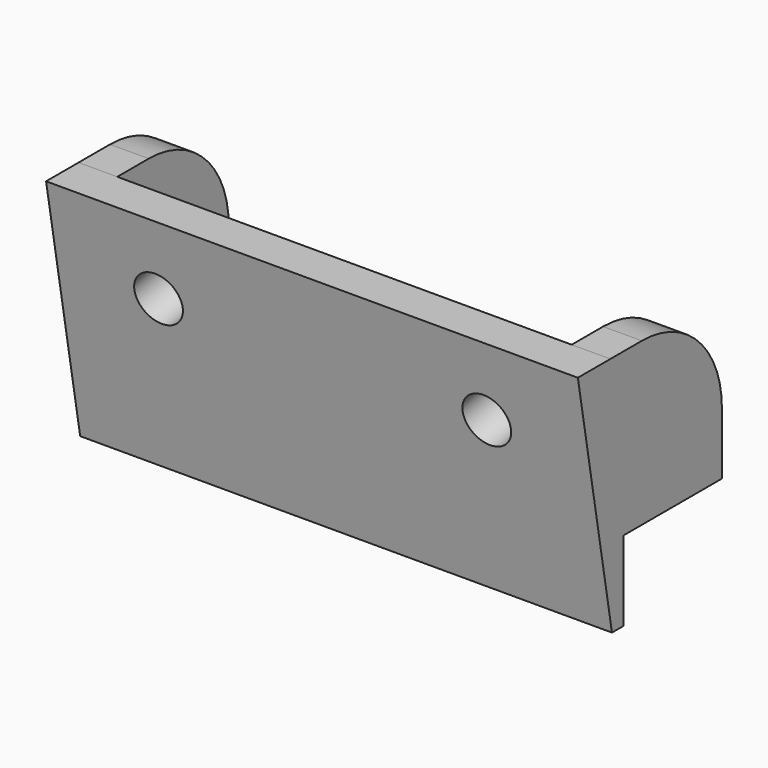
from build123d import *

# Parameters (mm, degrees)
PAD004_DEPTH    = 55
SKETCH007_R     = 2.6
POCKET_DEPTH    = 10
SKETCH005_R     = 2.5
POCKET002_DEPTH = 5
SKETCH008_R     = 4.4
POCKET003_DEPTH = 5
PAD005_DEPTH    = 4
PAD006_DEPTH    = 4
POCKET005_DEPTH = 12.7


with BuildPart() as part:
    # Sketch004 → Pad004 (new body)
    with BuildSketch(Plane.YZ):
        Polygon((-1.516354, -5.192676), (-5.924528, 19.807324), (-1.724528, 19.807324), (0.357421, 8), (12.7, 8), (12.7, 0), (0, 0), (0, -5.192676), align=None)
    extrude(amount=PAD004_DEPTH)

    # Sketch007 → Pocket (cut)
    with BuildSketch(Plane.XY):
        with Locations((20.25, 6.35)):
            Circle(SKETCH007_R)
        with Locations((34.75, 6.35)):
            Circle(SKETCH007_R)
    extrude(amount=POCKET_DEPTH, mode=Mode.SUBTRACT)

    # Sketch005 → Pocket002 (cut)
    with BuildSketch(Plane(origin=(0, 2, 0), x_dir=(-1, 0, 0), z_dir=(0, 0.984808, 0.173648))):
        with Locations((-44.475514, 12.925289)):
            Circle(SKETCH005_R)
        with Locations((-10.524486, 12.925289)):
            Circle(SKETCH005_R)
    extrude(amount=-POCKET002_DEPTH, mode=Mode.SUBTRACT)

    # Sketch008 → Pocket003 (cut)
    with BuildSketch(Plane.XY.offset(4)):
        with Locations((20.25, 6.35)):
            Circle(SKETCH008_R)
        with Locations((34.75, 6.35)):
            Circle(SKETCH008_R)
    extrude(amount=POCKET003_DEPTH, mode=Mode.SUBTRACT)

    # Sketch009 → Pad005 (join)
    with BuildSketch(Plane.YZ):
        with BuildLine():
            Line((12.7, 8), (0.357421, 8))
            Line((0.357421, 8), (-1.724529, 19.807325))
            Line((-1.724529, 19.807325), (2.337742, 19.807325))
            ThreePointArc((12.7, 9.445067), (9.664965, 16.77229), (2.337742, 19.807325))
            Line((12.7, 9.445067), (12.7, 8))
        make_face()
    extrude(amount=PAD005_DEPTH)

    # Sketch010 → Pad006 (join)
    with BuildSketch(Plane.YZ.offset(55)):
        with BuildLine():
            Line((12.7, 8), (0.357421, 8))
            Line((0.357421, 8), (-1.724529, 19.807325))
            Line((-1.724529, 19.807325), (2.337742, 19.807325))
            ThreePointArc((12.7, 9.445067), (9.664965, 16.77229), (2.337742, 19.807325))
            Line((12.7, 9.445067), (12.7, 8))
        make_face()
    extrude(amount=-PAD006_DEPTH)

    # Sketch012 (on Face10 of Pad006) → Pocket005 (cut)
    with BuildSketch(Plane.ZX.offset(12.7)):
        Polygon((0, 43.184493), (3.048737, 43.184493), (3.048737, 55), (-3.047035, 55), (-3.047035, 0), (0, 0), (3.048737, 0), (3.048737, 11.815507), (0, 11.815507), align=None)
    extrude(amount=-POCKET005_DEPTH, mode=Mode.SUBTRACT)


with BuildPart() as part_1:
    # Body004 placement: moved
    add(part.part.moved(Location((12.5222, -6.2992, 12.7254))))


solid = part_1.part
